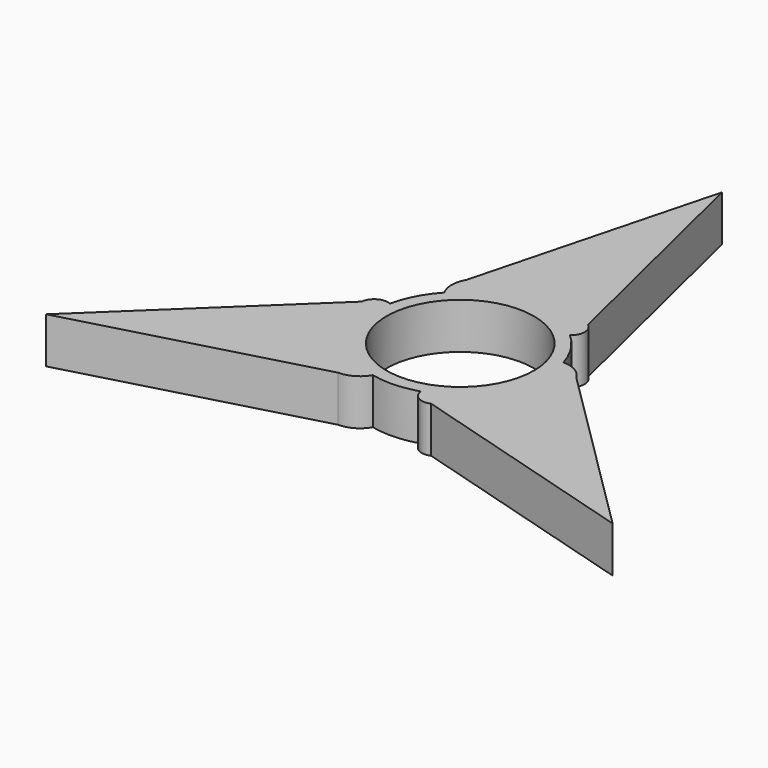
from build123d import *

# Parameters (mm, degrees)
F0_R     = 11.25
F1_DEPTH = 7


with BuildPart() as f1:
    # F0 (on Top) → F1 (new body)
    with BuildSketch(Plane.XY):
        with BuildLine():
            ThreePointArc((11.474837, -6.625), (12.798517, -3.429352), (13.25, 0))
            ThreePointArc((13.25, 0), (13.106892, 1.942136), (12.680658, 3.84232))
            ThreePointArc((12.680658, 3.84232), (11.191498, 7.093156), (8.887305, 9.827426))
            ThreePointArc((8.887305, 9.827426), (4.76178, 12.364787), (0, 13.25))
            ThreePointArc((0, 13.25), (-5.268273, 12.157623), (-9.667875, 9.060612))
            ThreePointArc((-9.667875, 9.060612), (-11.738603, 6.145544), (-12.954453, 2.782919))
            ThreePointArc((-12.954453, 2.782919), (-13.08911, -2.05857), (-11.474837, -6.625))
            ThreePointArc((-11.474837, -6.625), (-7.894674, -10.641269), (-3.012782, -12.902932))
            ThreePointArc((-3.012782, -12.902932), (0.547104, -13.2387), (4.067148, -12.610345))
            ThreePointArc((4.067148, -12.610345), (8.327329, -10.306216), (11.474837, -6.625))
        make_face()
        Circle(F0_R, mode=Mode.SUBTRACT)
        with BuildLine():
            ThreePointArc((12.680658, 3.84232), (13.106892, 1.942136), (13.25, 0))
            ThreePointArc((13.25, 0), (12.798517, -3.429352), (11.474837, -6.625))
            Line((11.474837, -6.625), (16.308774, 1.747626))
            ThreePointArc((16.308774, 1.747626), (14.778719, 3.28688), (12.680658, 3.84232))
        make_face()
        with BuildLine():
            Line((7.031184, -14.321632), (11.474837, -6.625))
            ThreePointArc((11.474837, -6.625), (8.327329, -10.306216), (4.067148, -12.610345))
            ThreePointArc((4.067148, -12.610345), (5.110967, -14.224971), (7.031184, -14.321632))
        make_face()
        Polygon((16.308774, 1.747626), (11.474837, -6.625), (7.031184, -14.321632), (43.235024, -24.961753), align=None)
        with BuildLine():
            ThreePointArc((0, 13.25), (4.76178, 12.364787), (8.887305, 9.827426))
            ThreePointArc((8.887305, 9.827426), (9.763702, 11.538713), (8.887305, 13.25))
            Line((8.887305, 13.25), (0, 13.25))
        make_face()
        with BuildLine():
            ThreePointArc((-9.667875, 9.060612), (-5.268273, 12.157623), (0, 13.25))
            Line((0, 13.25), (-9.667875, 13.25))
            ThreePointArc((-9.667875, 13.25), (-10.235881, 11.155306), (-9.667875, 9.060612))
        make_face()
        Polygon((-9.667875, 13.25), (0, 13.25), (8.887305, 13.25), (0, 49.923506), align=None)
        with BuildLine():
            ThreePointArc((-6.640899, -14.997626), (-4.542838, -14.442186), (-3.012782, -12.902932))
            ThreePointArc((-3.012782, -12.902932), (-7.894674, -10.641269), (-11.474837, -6.625))
            Line((-11.474837, -6.625), (-6.640899, -14.997626))
        make_face()
        with BuildLine():
            Line((-15.918489, 1.071632), (-11.474837, -6.625))
            ThreePointArc((-11.474837, -6.625), (-13.08911, -2.05857), (-12.954453, 2.782919))
            ThreePointArc((-12.954453, 2.782919), (-14.87467, 2.686258), (-15.918489, 1.071632))
        make_face()
        Polygon((-6.640899, -14.997626), (-11.474837, -6.625), (-15.918489, 1.071632), (-43.235024, -24.961753), align=None)
    extrude(amount=F1_DEPTH)


solid = f1.part
